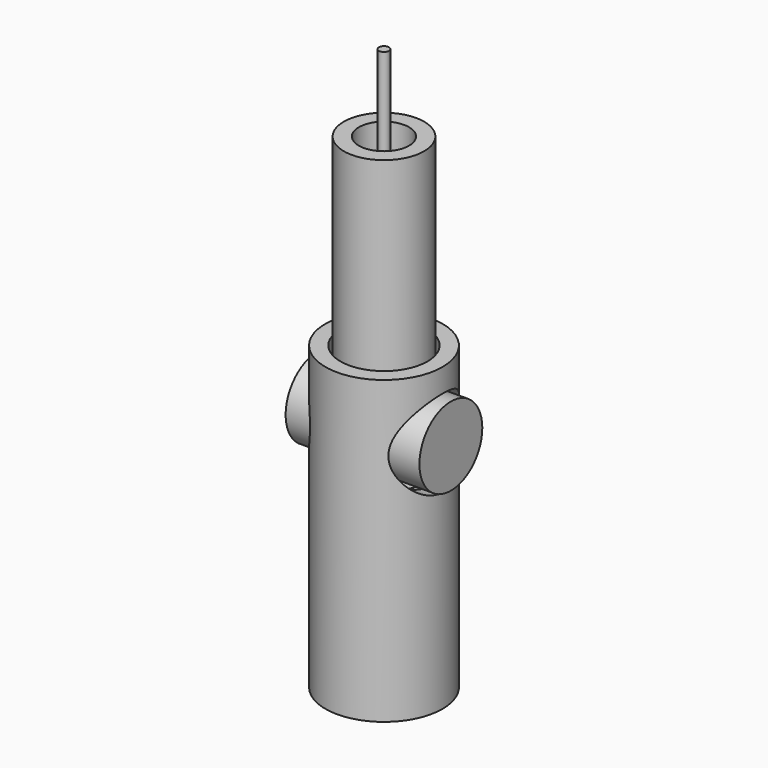
from build123d import *

# Parameters (mm, degrees)
F0_R           = 35
F0_R_2         = 26
F1_DEPTH       = 180
F3_R           = 24
F3_R_2         = 15
F4_DEPTH       = 150
F5_R           = 26
F6_DEPTH       = 35.001
F6_DEPTH_BACK  = 35.001
F7_R           = 23.5
F8_DEPTH       = 40
F8_DEPTH_BACK  = 40
F9_R           = 6
F10_DEPTH      = 110.0010001
F10_DEPTH_BACK = 180.0010001
F12_R          = 25
F13_DEPTH      = 100
F14_R          = 6
F15_DEPTH      = 20
F16_R          = 3
F17_DEPTH      = 200


with BuildPart() as f1:
    # F0 (on Top) → F1 (new body)
    with BuildSketch(Plane.XY):
        Circle(F0_R)
        Circle(F0_R_2, mode=Mode.SUBTRACT)
    extrude(amount=-F1_DEPTH)


with BuildPart() as f4:
    # F3 (on offset) → F4 (new body)
    with BuildSketch(Plane.XY.offset(-40)):
        Circle(F3_R)
        Circle(F3_R_2, mode=Mode.SUBTRACT)
    extrude(amount=F4_DEPTH)


with BuildPart() as f6_tool:
    # F5 (on Right) → F6 (new body, two sides)
    with BuildSketch(Plane.YZ) as f6_sk:
        with Locations((0, -40)):
            Circle(F5_R)
    extrude(amount=-F6_DEPTH)
    extrude(f6_sk.sketch, amount=F6_DEPTH_BACK)


with BuildPart() as f1_1:
    add(f1.part)

    # F6: cut by f6_tool
    add(f6_tool.part, mode=Mode.SUBTRACT)


with BuildPart() as f4_1:
    add(f4.part)

    # F6: cut by f6_tool
    add(f6_tool.part, mode=Mode.SUBTRACT)


with BuildPart() as f8:
    # F7 (on Right) → F8 (new body, two sides)
    with BuildSketch(Plane.YZ) as f8_sk:
        with Locations((0, -40)):
            Circle(F7_R)
    extrude(amount=F8_DEPTH)
    extrude(f8_sk.sketch, amount=-F8_DEPTH_BACK)

    # F9 (on Top) → F10 (cut, two sides)
    with BuildSketch(Plane.XY) as f10_sk:
        Circle(F9_R)
    extrude(amount=F10_DEPTH, mode=Mode.SUBTRACT)
    extrude(f10_sk.sketch, amount=-F10_DEPTH_BACK, mode=Mode.SUBTRACT)


with BuildPart() as f13:
    # F12 (on offset) → F13 (new body)
    with BuildSketch(Plane.XY.offset(-64)):
        Circle(F12_R)
    extrude(amount=-F13_DEPTH)

    # F14 (on face) → F15 (join)
    with BuildSketch(Plane.XY.offset(-64)):
        Circle(F14_R)
    extrude(amount=F15_DEPTH)

    # F16 (on face) → F17 (join)
    with BuildSketch(Plane.XY.offset(-44)):
        Circle(F16_R)
    extrude(amount=F17_DEPTH)


solid = Compound([f1_1.part, f4_1.part, f8.part, f13.part])
